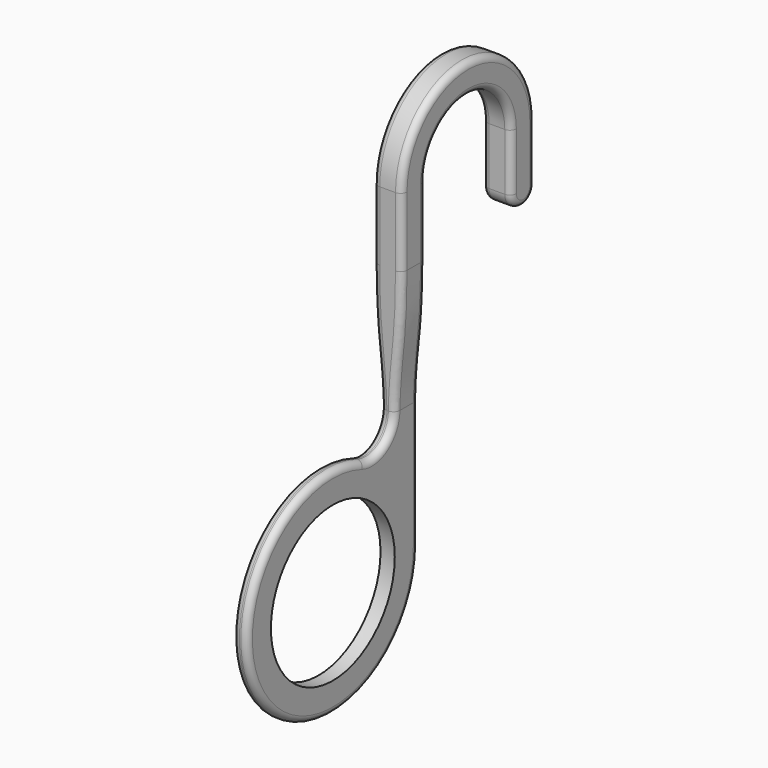
from build123d import *

# Parameters (mm, degrees)
F0_R     = 13.7795
F1_DEPTH = 2.54
F2_R     = 5.08
F4_DEPTH = 1.27
F6_DEPTH = 1.27
F8_DEPTH = 5.2705
F9_R     = 1.143


with BuildPart() as f1:
    # F0 (on Right) → F1 (new body)
    with BuildSketch(Plane.YZ):
        with BuildLine():
            ThreePointArc((19.05, 0), (17.6833534009, 7.0853025694), (13.7795, 13.1540062243))
            ThreePointArc((13.7795, 13.1540062243), (-17.6833534009, -7.0853025694), (19.05, 0))
        make_face()
        Circle(F0_R, mode=Mode.SUBTRACT)
        with BuildLine():
            Line((13.7795, 57.15), (13.7795, 13.1540062243))
            ThreePointArc((13.7795, 13.1540062243), (17.6833534009, 7.0853025694), (19.05, 0))
            Line((19.05, 0), (19.05, 57.15))
            ThreePointArc((19.05, 57.15), (28.575, 66.675), (38.1, 57.15))
            Line((38.1, 57.15), (38.1, 46.99))
            ThreePointArc((38.1, 46.99), (40.7416, 44.3484), (43.3832, 46.99))
            Line((43.3832, 46.99), (43.3832, 57.15))
            ThreePointArc((43.3832, 57.15), (28.58135, 71.95185), (13.7795, 57.15))
        make_face()
    extrude(amount=F1_DEPTH)

    # F2
    f2_edges = [f1.edges().sort_by_distance(p)[0] for p in [
        (1.27, 13.7795, 13.154006),
    ]]
    fillet(f2_edges, radius=F2_R)

    # F3 (on face) → F4 (join)
    with BuildSketch(Plane.YZ.offset(2.54)):
        with BuildLine():
            Line((13.7795, 44.8760166764), (19.05, 44.8760166764))
            Line((19.05, 44.8760166764), (19.05, 57.15))
            ThreePointArc((19.05, 57.15), (28.575, 66.675), (38.1, 57.15))
            Line((38.1, 57.15), (38.1, 46.99))
            ThreePointArc((38.1, 46.99), (40.7416, 44.3484), (43.3832, 46.99))
            Line((43.3832, 46.99), (43.3832, 57.15))
            ThreePointArc((43.3832, 57.15), (28.58135, 71.95185), (13.7795, 57.15))
            Line((13.7795, 57.15), (13.7795, 44.8760166764))
        make_face()
    extrude(amount=F4_DEPTH)

    # F5 (on face) → F6 (join)
    with BuildSketch(Plane(origin=(0, 0, 0), x_dir=(0, -1, 0), z_dir=(-1, 0, 0))):
        with BuildLine():
            Line((-19.05, 57.15), (-19.05, 44.8760166764))
            Line((-19.05, 44.8760166764), (-13.7795, 44.8760166764))
            Line((-13.7795, 44.8760166764), (-13.7795, 57.15))
            ThreePointArc((-13.7795, 57.15), (-28.58135, 71.95185), (-43.3832, 57.15))
            Line((-43.3832, 57.15), (-43.3832, 46.99))
            ThreePointArc((-43.3832, 46.99), (-40.7416, 44.3484), (-38.1, 46.99))
            Line((-38.1, 46.99), (-38.1, 57.15))
            ThreePointArc((-38.1, 57.15), (-28.575, 66.675), (-19.05, 57.15))
        make_face()
    extrude(amount=F6_DEPTH)

    # F7 (on face) → F8 (join, through all)
    with BuildSketch(Plane.XZ.offset(-13.7795)):
        with BuildLine():
            Line((0, 44.8760166764), (-1.27, 44.8760166764))
            add(Edge.make_bspline(
                [(-1.27, 44.8760166764), (-1.27, 41.9389868527), (-1.1001096664, 36.6914165172), (-0.673724923, 32.307052024), (0, 25.5389690077), (0, 22.507234387)],
                knots=[0, 0, 0, 0, 0.3506949739, 0.6162581597, 1, 1, 1, 1], degree=3))
            Line((0, 22.507234387), (0, 44.8760166764))
        make_face()
        with BuildLine():
            Line((2.54, 44.8760166764), (2.54, 22.507234387))
            add(Edge.make_bspline(
                [(3.81, 44.8760166764), (3.81, 41.9389868527), (3.6401096664, 36.6914165172), (3.213724923, 32.307052024), (2.54, 25.5389690077), (2.54, 22.507234387)],
                knots=[0, 0, 0, 0, 0.3506949739, 0.6162581597, 1, 1, 1, 1], degree=3))
            Line((3.81, 44.8760166764), (2.54, 44.8760166764))
        make_face()
    extrude(amount=-F8_DEPTH)

    # F9
    f9_edges = [f1.edges().sort_by_distance(p)[0] for p in [
        (-1.27, 28.575, 66.675),
        (3.81, 28.58135, 71.95185),
    ]]
    fillet(f9_edges, radius=F9_R)


solid = f1.part
